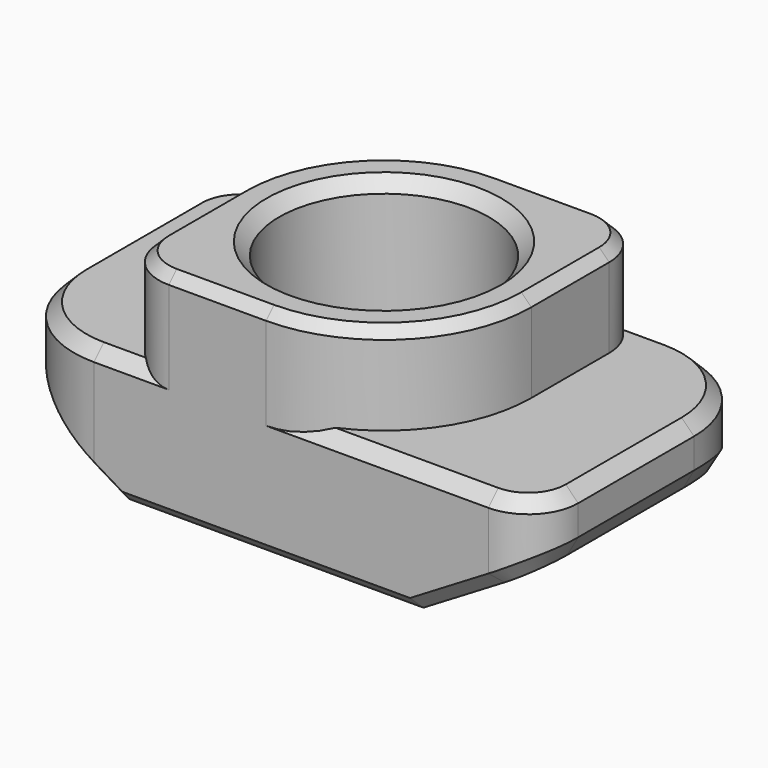
from build123d import *

# Parameters (mm, degrees)
SKETCH_W        = 10.9
SKETCH_H        = 5.9
PAD_DEPTH       = 4.4
SKETCH001_R     = 2.1
HOLE_DEPTH      = 25
SKETCH002_W     = 13.975575
SKETCH002_H     = 8.81763
POCKET_DEPTH    = 1.8
FILLET_R        = 1
FILLET001_R     = 2
FILLET002_R     = 1
POCKET001_DEPTH = 5.901
CHAMFER_SIZE    = 0.25
CHAMFER001_SIZE = 0.2
CHAMFER002_SIZE = 0.25
CHAMFER003_SIZE = 0.25


with BuildPart() as part:
    # Sketch → Pad (new body)
    with BuildSketch(Plane.XY):
        Rectangle(SKETCH_W, SKETCH_H)
    extrude(amount=PAD_DEPTH)

    # Sketch001 (on Face6 of Pad) → Hole (cut)
    with BuildSketch(Plane.XY.offset(4.4)):
        Circle(SKETCH001_R)
    extrude(amount=-HOLE_DEPTH, mode=Mode.SUBTRACT)

    # Sketch002 (on Face5 of Hole) → Pocket (cut)
    with BuildSketch(Plane.XY.offset(4.4)):
        with Locations((0.08922, 0.089121)):
            Rectangle(SKETCH002_W, SKETCH002_H)
        with BuildLine():
            ThreePointArc((0, 2.95), (-2.085965, 2.085965), (-2.95, 0))
            Line((-2.95, 0), (-2.95, -2.95))
            Line((-2.95, -2.95), (0, -2.95))
            ThreePointArc((0, -2.95), (2.085965, -2.085965), (2.95, 0))
            Line((2.95, 2.95), (2.95, 0))
            Line((0, 2.95), (2.95, 2.95))
        make_face(mode=Mode.SUBTRACT)
    extrude(amount=-POCKET_DEPTH, mode=Mode.SUBTRACT)

    # Fillet
    fillet_edges = [part.edges().sort_by_distance(p)[0] for p in [
        (2.95, 2.95, 3.5),
        (-2.95, -2.95, 3.5),
    ]]
    fillet(fillet_edges, radius=FILLET_R)

    # Fillet001
    fillet001_edges = [part.edges().sort_by_distance(p)[0] for p in [
        (5.45, 2.95, 1.3),
        (-5.45, -2.95, 1.3),
    ]]
    fillet(fillet001_edges, radius=FILLET001_R)

    # Fillet002
    fillet002_edges = [part.edges().sort_by_distance(p)[0] for p in [
        (5.45, -2.95, 1.3),
        (-5.45, 2.95, 1.3),
    ]]
    fillet(fillet002_edges, radius=FILLET002_R)

    # Sketch003 (on Face5 of Fillet002) → Pocket001 (cut, through all)
    with BuildSketch(Plane.XZ.offset(2.95)):
        Polygon((-5.45, 1.5), (-2.95, 0), (-5.45, 0), align=None)
        Polygon((5.45, 1.5), (5.45, 0), (2.95, 0), align=None)
    extrude(amount=-POCKET001_DEPTH, mode=Mode.SUBTRACT)

    # Chamfer
    chamfer_edges = [part.edges().sort_by_distance(p)[0] for p in [
        (-2.1, 0, 0),
        (-2.1, 0, 4.4),
    ]]
    chamfer(chamfer_edges, length=CHAMFER_SIZE)

    # Chamfer001
    chamfer001_edges = [part.edges().sort_by_distance(p)[0] for p in [
        (-2.95, -0.975, 4.4),
    ]]
    chamfer(chamfer001_edges, length=CHAMFER001_SIZE)

    # Chamfer002
    chamfer002_edges = [part.edges().sort_by_distance(p)[0] for p in [
        (0, -2.95, 0),
        (3.7, -2.95, 0.45),
        (-3.2, -2.95, 0.15),
        (0, 2.95, 0),
    ]]
    chamfer(chamfer002_edges, length=CHAMFER002_SIZE)

    # Chamfer003
    chamfer003_edges = [part.edges().sort_by_distance(p)[0] for p in [
        (-4.864214, -2.364214, 2.6),
        (2.225, -2.95, 2.6),
    ]]
    chamfer(chamfer003_edges, length=CHAMFER003_SIZE)


solid = part.part
